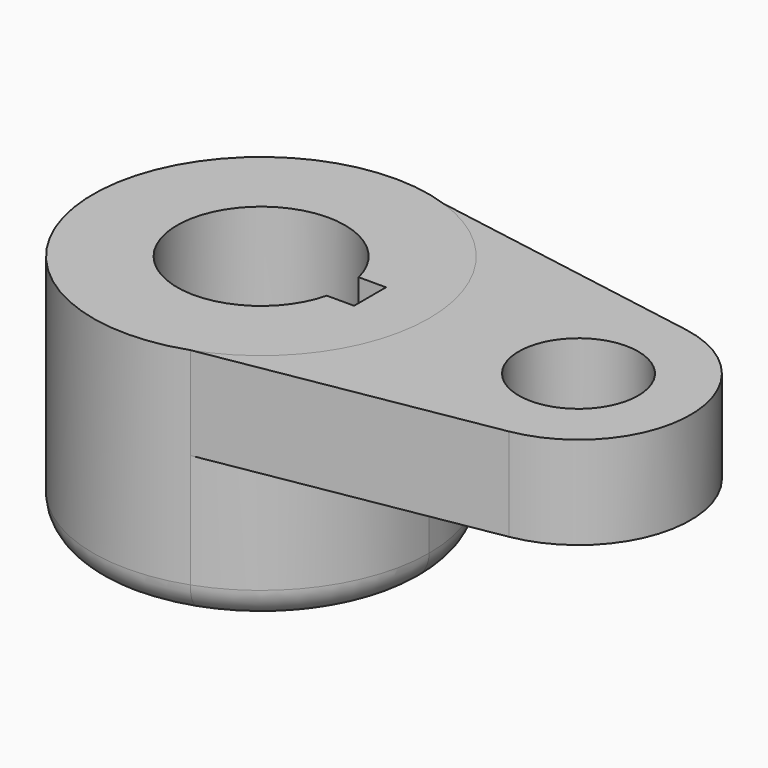
from build123d import *

# Parameters (mm, degrees)
F0_R     = 25.4384663116
F1_DEPTH = 40.2336
F0_R_2   = 10.16
F2_DEPTH = 15.7734
F3_R     = 5.08


with BuildPart() as f1:
    # F0 (on Top) → F1 (new body)
    with BuildSketch(Plane.XY):
        with BuildLine():
            ThreePointArc((-26.3079627686, -26.9452959039), (-12.4926817167, -16.5033322905), (-7.2451472522, 0))
            ThreePointArc((-7.2451472522, 0), (-12.4926817167, 16.5033322905), (-26.3079627686, 26.9452959039))
            ThreePointArc((-26.3079627686, 26.9452959039), (-64.3951472522, 0), (-26.3079627686, -26.9452959039))
        make_face()
        with Locations((-35.8201472522, 0)):
            Circle(F0_R, mode=Mode.SUBTRACT)
        with Locations((-35.8201472522, 0)):
            Circle(F0_R)
        with BuildLine():
            ThreePointArc((-21.9419522094, -3.395343665), (-50.1076472522, 0), (-21.9419522094, 3.395343665))
            Line((-21.9419522094, 3.395343665), (-17.2908472522, 3.395343665))
            Line((-17.2908472522, 3.395343665), (-17.2908472522, -3.395343665))
            Line((-17.2908472522, -3.395343665), (-21.9419522094, -3.395343665))
        make_face(mode=Mode.SUBTRACT)
    extrude(amount=-F1_DEPTH)

    # F3
    f3_edges = [f1.edges().sort_by_distance(p)[0] for p in [
        (-64.395147, 0, -40.2336),
    ]]
    fillet(f3_edges, radius=F3_R)


with BuildPart() as f2:
    # F0 (on Top) → F2 (new body)
    with BuildSketch(Plane.XY):
        with BuildLine():
            ThreePointArc((-26.3079627686, 26.9452959039), (-12.4926817167, 16.5033322905), (-7.2451472522, 0))
            ThreePointArc((-7.2451472522, 0), (-12.4926817167, -16.5033322905), (-26.3079627686, -26.9452959039))
            Line((-26.3079627686, -26.9452959039), (21.3717800099, -18.7764181619))
            ThreePointArc((21.3717800099, -18.7764181619), (37.2048527478, 0), (21.3717800099, 18.7764181619))
            Line((21.3717800099, 18.7764181619), (-26.3079627686, 26.9452959039))
        make_face()
        with Locations((18.1548527478, 0)):
            Circle(F0_R_2, mode=Mode.SUBTRACT)
    extrude(amount=-F2_DEPTH)


solid = Compound([f1.part, f2.part])
